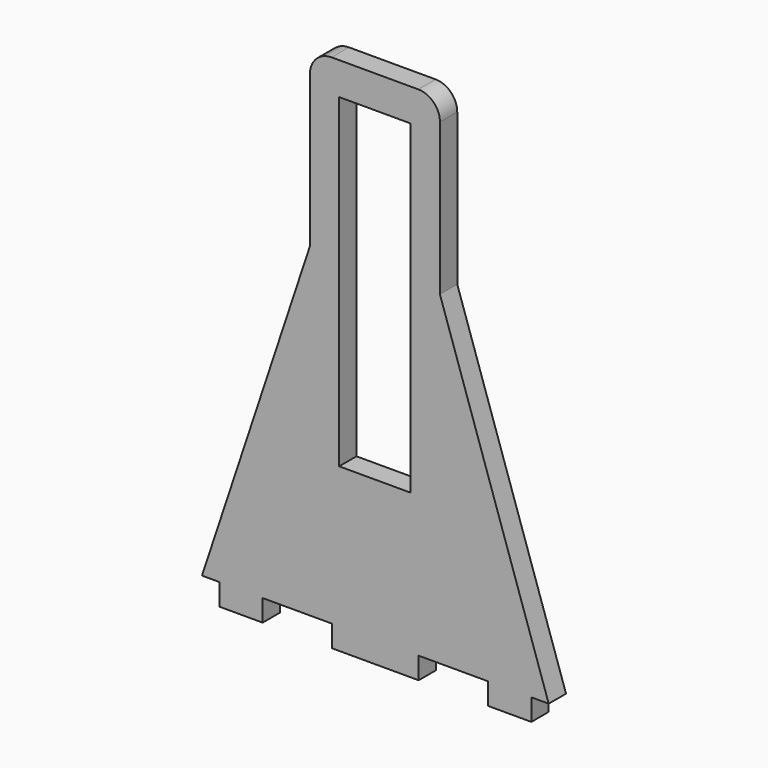
from build123d import *

# Parameters (mm, degrees)
F1_DEPTH = 5
F2_R     = 5
F3_R     = 5


with BuildPart() as f1:
    # F0 (on Front) → F1 (new body)
    with BuildSketch(Plane.XZ):
        Polygon((40.09773, -95), (15, -20), (8.25, -20), (8.25, -62.5), (-8.25, -62.5), (-8.25, -20), (-15, -20), (-39.90227, -95), (-35.90227, -95), (-35.90227, -100), (-25.90227, -100), (-25.90227, -95), (-9.90227, -95), (-9.90227, -100), (10.09773, -100), (10.09773, -95), (26.09773, -95), (26.09773, -100), (36.09773, -100), (36.09773, -95), align=None)
        Polygon((8.25, -20), (15, -20), (15, 20), (-15, 20), (-15, -20), (-8.25, -20), (-8.25, -12.5), (-8.25, 12.5), (8.25, 12.5), (8.25, -12.5), align=None)
    extrude(amount=F1_DEPTH)

    # F2
    f2_edges = [f1.edges().sort_by_distance(p)[0] for p in [
        (-15, -2.5, 20),
    ]]
    fillet(f2_edges, radius=F2_R)

    # F3
    f3_edges = [f1.edges().sort_by_distance(p)[0] for p in [
        (15, -2.5, 20),
    ]]
    fillet(f3_edges, radius=F3_R)


solid = f1.part
